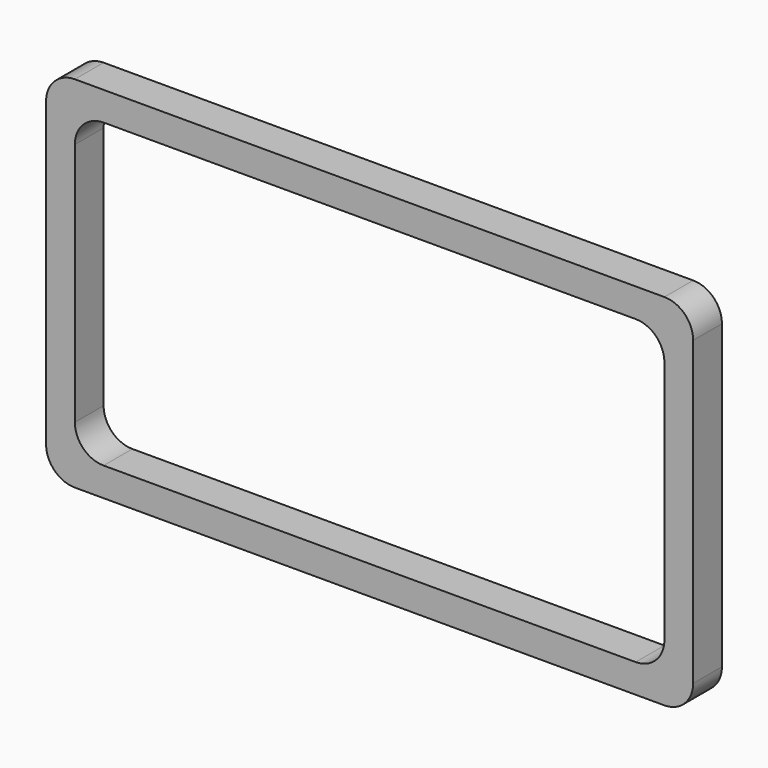
from build123d import *

# Parameters (mm, degrees)
F0_W     = 450
F0_H     = 250
F0_W_2   = 410
F0_H_2   = 210
F1_DEPTH = 25
F2_R     = 20


with BuildPart() as f1:
    # F0 (on Front) → F1 (new body)
    with BuildSketch(Plane.XZ):
        Rectangle(F0_W, F0_H)
        Rectangle(F0_W_2, F0_H_2, mode=Mode.SUBTRACT)
    extrude(amount=F1_DEPTH)

    # F2
    f2_edges = [f1.edges().sort_by_distance(p)[0] for p in [
        (-205, -12.5, 105),
        (205, -12.5, 105),
        (205, -12.5, -105),
        (-205, -12.5, -105),
        (-225, -12.5, 125),
        (225, -12.5, 125),
        (225, -12.5, -125),
        (-225, -12.5, -125),
    ]]
    fillet(f2_edges, radius=F2_R)


solid = f1.part
